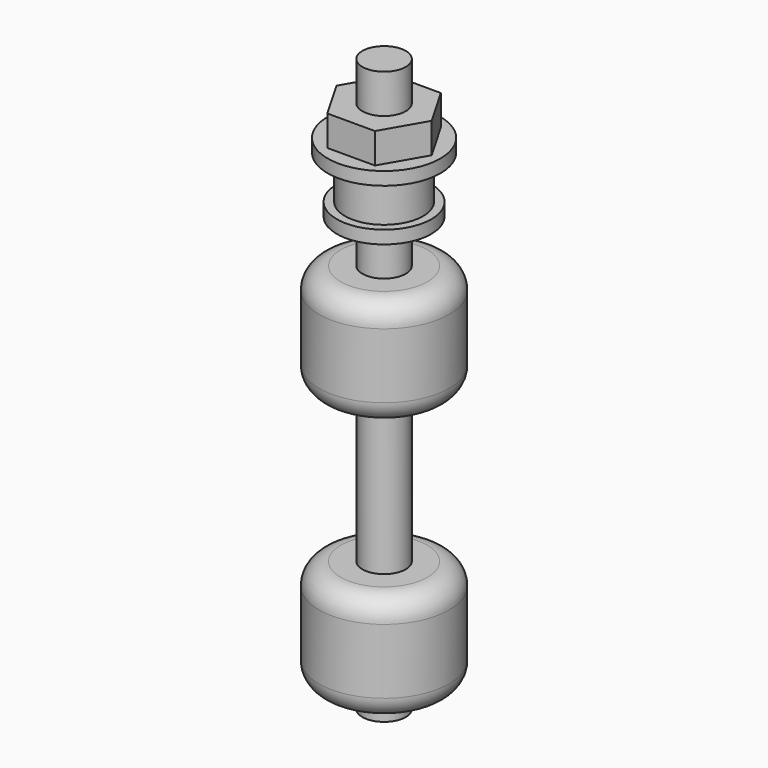
from build123d import *

# Parameters (mm, degrees)
F0_R      = 10.9
F1_DEPTH  = 3
F2_R      = 9
F3_DEPTH  = 10
F4_R      = 13
F5_DEPTH  = 3
F7_DEPTH  = 7
F8_R      = 5
F9_DEPTH  = 9
F10_R     = 5
F11_DEPTH = 100
F13_R     = 15
F14_DEPTH = 25
F16_R     = 15
F17_DEPTH = 25
F18_R     = 5


with BuildPart() as f1:
    # F0 (on Top) → F1 (new body)
    with BuildSketch(Plane.XY):
        Circle(F0_R)
    extrude(amount=F1_DEPTH)

    # F2 (on face) → F3 (join)
    with BuildSketch(Plane.XY.offset(3)):
        Circle(F2_R)
    extrude(amount=F3_DEPTH)

    # F4 (on face) → F5 (join)
    with BuildSketch(Plane.XY.offset(13)):
        Circle(F4_R)
    extrude(amount=F5_DEPTH)

    # F6 (on face) → F7 (join)
    with BuildSketch(Plane.XY.offset(16)):
        Polygon((-5.484828, -9.5), (5.484828, -9.5), (10.969655, 0), (5.484828, 9.5), (-5.484828, 9.5), (-10.969655, 0), align=None)
    extrude(amount=F7_DEPTH)

    # F8 (on face) → F9 (join)
    with BuildSketch(Plane.XY.offset(23)):
        Circle(F8_R)
    extrude(amount=F9_DEPTH)

    # F10 (on face) → F11 (join)
    with BuildSketch(Plane(origin=(0, 0, 0), x_dir=(1, 0, 0), z_dir=(0, 0, -1))):
        Circle(F10_R)
    extrude(amount=F11_DEPTH)

    # F13 (on offset) → F14 (join)
    with BuildSketch(Plane(origin=(0, 0, -95), x_dir=(1, 0, 0), z_dir=(0, 0, -1))):
        Circle(F13_R)
    extrude(amount=-F14_DEPTH)

    # F16 (on offset) → F17 (join)
    with BuildSketch(Plane(origin=(0, 0, -35), x_dir=(1, 0, 0), z_dir=(0, 0, -1))):
        Circle(F16_R)
    extrude(amount=-F17_DEPTH)

    # F18
    f18_edges = [f1.edges().sort_by_distance(p)[0] for p in [
        (-15, 0, -70),
        (-15, 0, -95),
        (-15, 0, -10),
        (-15, 0, -35),
    ]]
    fillet(f18_edges, radius=F18_R)


solid = f1.part
